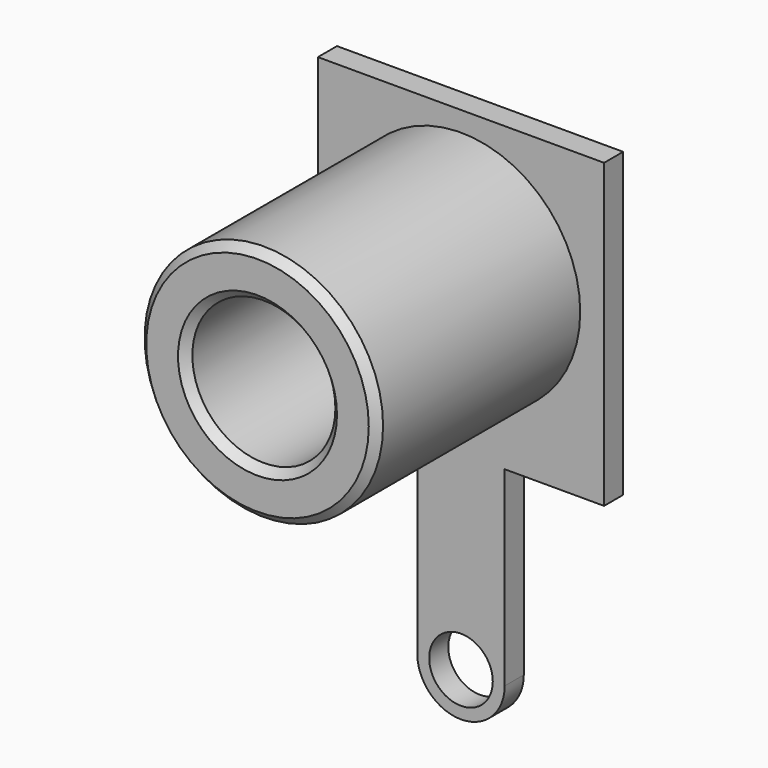
from build123d import *

# Parameters (mm, degrees)
SKETCH060_R     = 0.8
PAD033_DEPTH    = 0.6
SKETCH059_R     = 3
PAD034_DEPTH    = 6.4
SKETCH064_R     = 1.8
POCKET009_DEPTH = 9
CHAMFER003_SIZE = 0.2


with BuildPart() as part:
    # Sketch060 → Pad033 (new body)
    with BuildSketch(Plane.XZ):
        with BuildLine():
            Line((7.2, 7.6), (0, 7.6))
            Line((0, 7.6), (0, 0))
            Line((0, 0), (2.5, 0))
            Line((2.5, 0), (2.5, -4.8))
            ThreePointArc((2.5, -4.8), (3.6, -5.9), (4.7, -4.8))
            Line((4.7, -4.8), (4.7, 0))
            Line((4.7, 0), (7.2, 0))
            Line((7.2, 0), (7.2, 7.6))
        make_face()
        with Locations((3.6, -4.8)):
            Circle(SKETCH060_R, mode=Mode.SUBTRACT)
    extrude(amount=PAD033_DEPTH)

    # Sketch059 (on Face11 of Pad033) → Pad034 (join)
    with BuildSketch(Plane.XZ.offset(0.6)):
        with Locations((3.6, 4.1)):
            Circle(SKETCH059_R)
    extrude(amount=PAD034_DEPTH)

    # Sketch064 (on Face13 of Pad034) → Pocket009 (cut)
    with BuildSketch(Plane.XZ.offset(7)):
        with Locations((3.6, 4.1)):
            Circle(SKETCH064_R)
    extrude(amount=-POCKET009_DEPTH, mode=Mode.SUBTRACT)

    # Chamfer003
    chamfer003_edges = [part.edges().sort_by_distance(p)[0] for p in [
        (0.6, -7, 4.1),
        (1.8, -7, 4.1),
    ]]
    chamfer(chamfer003_edges, length=CHAMFER003_SIZE)


with BuildPart() as part_1:
    # Body005 placement: moved
    add(part.part.moved(Location((1.4, 2.6, 1.4))))


solid = part_1.part
